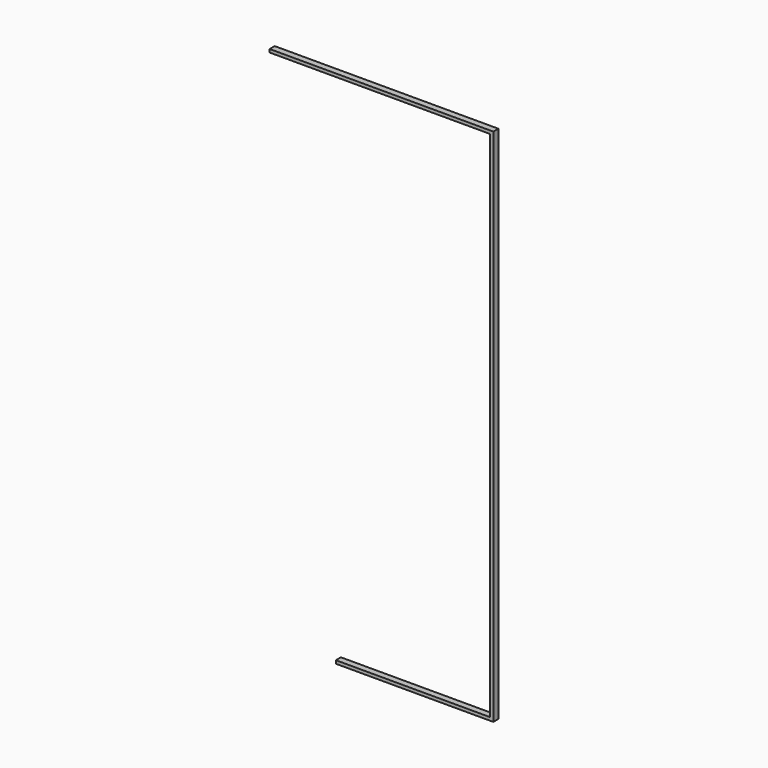
from build123d import *

# Parameters (mm, degrees)
F0_W     = 124.46
F0_H     = 2.54
F0_W_2   = 2.54
F0_H_2   = 414.02
F1_DEPTH = 5.08


with BuildPart() as f1:
    # F0 (on Front) → F1 (new body)
    with BuildSketch(Plane.XZ):
        with Locations((62.23, 1.27)):
            Rectangle(F0_W, F0_H)
        with Locations((125.73, 1.27)):
            Rectangle(F0_W_2, F0_H)
        with Locations((125.73, 209.55)):
            Rectangle(F0_W_2, F0_H_2)
        Polygon((-53.34, 416.56), (124.46, 416.56), (127, 416.56), (127, 419.1), (-53.34, 419.1), align=None)
    extrude(amount=F1_DEPTH)


solid = f1.part
